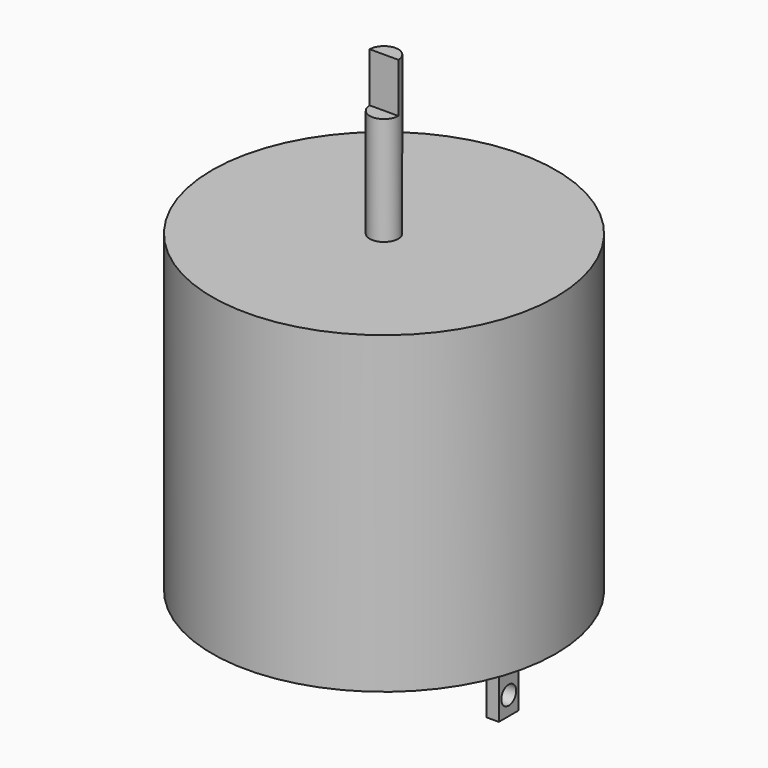
from build123d import *

# Parameters (mm, degrees)
F0_R      = 13.85
F1_DEPTH  = 25.3
F2_R      = 1.15
F3_DEPTH  = 12.7
F6_DEPTH  = 25
F7_W      = 1
F7_H      = 2
F8_DEPTH  = 5
F9_R      = 0.75
F10_DEPTH = 24.701


with BuildPart() as f1:
    # F0 (on Top) → F1 (new body)
    with BuildSketch(Plane.XY):
        Circle(F0_R)
    extrude(amount=F1_DEPTH)

    # F2 (on face) → F3 (join)
    with BuildSketch(Plane.XY.offset(25.3)):
        Circle(F2_R)
    extrude(amount=F3_DEPTH)

    # F5 (on offset) → F6 (cut)
    with BuildSketch(Plane.YZ.offset(1.15)):
        Polygon((0, 38.01338), (-1.15913, 38.01338), (-1.216348, 34.017637), (0, 34.017637), align=None)
    extrude(amount=-F6_DEPTH, mode=Mode.SUBTRACT)

    # F7 (on face) → F8 (join)
    with BuildSketch(Plane(origin=(0, 0, 0), x_dir=(1, 0, 0), z_dir=(0, 0, -1))):
        with Locations((-10.35, 1)):
            Rectangle(F7_W, F7_H)
        with Locations((10.35, 1)):
            Rectangle(F7_W, F7_H)
    extrude(amount=F8_DEPTH)

    # F9 (on face) → F10 (cut, through all)
    with BuildSketch(Plane.YZ.offset(10.85)):
        with Locations((-1, -3.5)):
            Circle(F9_R)
    extrude(amount=-F10_DEPTH, mode=Mode.SUBTRACT)


solid = f1.part
